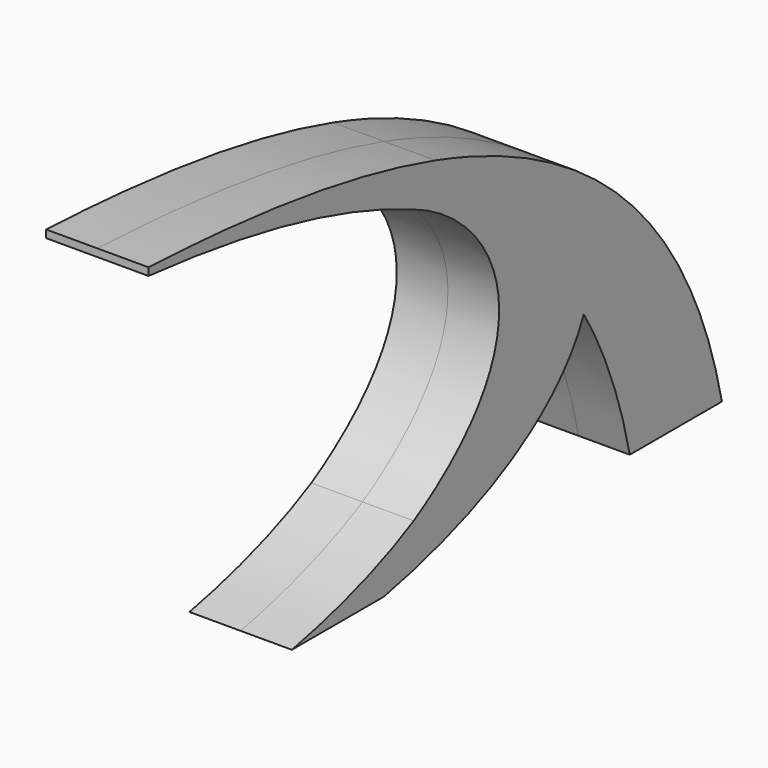
from build123d import *

# Parameters (mm, degrees)
F1_DEPTH      = 38.1
F1_DEPTH_BACK = 38.1
F2_SCALE      = 0.0833333333


with BuildPart() as f1:
    # F0 (on Right) → F1 (new body, two sides)
    with BuildSketch(Plane.YZ) as f1_sk:
        with BuildLine():
            add(Edge.make_bspline(
                [(89.0512747676, 84.3127688874), (51.5025046877, 109.6568065781), (7.9497262135, 128.8361399685), (-40.2992134272, 143.2426060549)],
                knots=[251.2899531871, 251.2899531871, 251.2899531871, 251.2899531871, 389.6266891942, 389.6266891942, 389.6266891942, 389.6266891942], degree=3))
            add(Edge.make_bspline(
                [(-40.2992134273, 143.2426060546), (-20.8577433202, 122.6663541214), (-6.4848342863, 102.9965586878), (3.3262747677, 84.3127688872)],
                knots=[0, 0, 0, 0, 44.9944338672, 44.9944338672, 44.9944338672, 44.9944338672], degree=3))
            add(Edge.make_bspline(
                [(97.9367360944, -13.693555973), (73.5382257251, 26.3390121062), (41.5418172622, 58.5186843595), (3.3262747677, 84.3127688872)],
                knots=[110.4967021115, 110.4967021115, 110.4967021115, 110.4967021115, 251.2899531868, 251.2899531868, 251.2899531868, 251.2899531868], degree=3))
            add(Edge.make_bspline(
                [(89.0512747676, 84.3127688874), (108.3054185182, 47.6461318492), (109.9905052366, 14.7769408359), (97.9367360944, -13.693555973)],
                knots=[44.994433867, 44.994433867, 44.994433867, 44.994433867, 133.2952867965, 133.2952867965, 133.2952867965, 133.2952867965], degree=3))
        make_face()
        with BuildLine():
            add(Edge.make_bspline(
                [(226.4007865727, -123.1679881383), (205.6551866214, -28.1042958821), (157.2589609394, 38.2750913429), (89.0512747676, 84.3127688874)],
                knots=[0, 0, 0, 0, 251.2899531871, 251.2899531871, 251.2899531871, 251.2899531871], degree=3))
            add(Edge.make_bspline(
                [(89.0512747676, 84.3127688874), (108.3054185182, 47.6461318492), (109.9905052366, 14.7769408359), (97.9367360944, -13.693555973)],
                knots=[44.994433867, 44.994433867, 44.994433867, 44.994433867, 133.2952867965, 133.2952867965, 133.2952867965, 133.2952867965], degree=3))
            add(Edge.make_bspline(
                [(140.6757865727, -123.1679881383), (131.5535739698, -81.366776623), (117.0850611145, -45.111729188), (97.9367360944, -13.693555973)],
                knots=[0, 0, 0, 0, 110.4967021115, 110.4967021115, 110.4967021115, 110.4967021115], degree=3))
            Line((140.6757865727, -123.1679881383), (226.4007865727, -123.1679881383))
        make_face()
        with BuildLine():
            add(Edge.make_bspline(
                [(-40.2992134273, 143.2426060546), (-20.8577433202, 122.6663541214), (-6.4848342863, 102.9965586878), (3.3262747677, 84.3127688872)],
                knots=[0, 0, 0, 0, 44.9944338672, 44.9944338672, 44.9944338672, 44.9944338672], degree=3))
            add(Edge.make_bspline(
                [(-40.2992134272, 143.2426060549), (-118.6758921642, 166.644798364), (-209.444563868, 177.4525894237), (-306.9992134273, 181.6320118621)],
                knots=[389.6266891942, 389.6266891942, 389.6266891942, 389.6266891942, 614.3440404205, 614.3440404205, 614.3440404205, 614.3440404205], degree=3))
            Line((-306.9992134273, 181.6320118621), (-306.9992134273, 175.9282581051))
            add(Edge.make_bspline(
                [(-62.3141094232, 120.0935377835), (-132.1010704471, 150.6607475907), (-215.4464728571, 167.3740709192), (-306.9992134273, 175.9282581051)],
                knots=[325.7434997871, 325.7434997871, 325.7434997871, 325.7434997871, 547.0018290671, 547.0018290671, 547.0018290671, 547.0018290671], degree=3))
            add(Edge.make_bspline(
                [(-62.3141094232, 120.0935377835), (-57.569536239, 118.1678217564), (-52.9586357331, 116.0573946954), (-48.5021746362, 113.7760695913)],
                knots=[0, 0, 0, 0, 11.285021106, 11.285021106, 11.285021106, 11.285021106], degree=3))
            add(Edge.make_bspline(
                [(3.3262747677, 84.3127688872), (-12.8680482417, 95.2433408301), (-30.1791713746, 105.0272217507), (-48.5021746362, 113.7760695913)],
                knots=[251.2899531868, 251.2899531868, 251.2899531868, 251.2899531868, 310.952887078, 310.952887078, 310.952887078, 310.952887078], degree=3))
        make_face()
        with BuildLine():
            add(Edge.make_bspline(
                [(3.3262747677, 84.3127688872), (41.6453572527, 11.3398074654), (10.3770996492, -46.5922688635), (-60.2863327619, -84.7440264271)],
                knots=[44.9944338672, 44.9944338672, 44.9944338672, 44.9944338672, 220.7284322597, 220.7284322597, 220.7284322597, 220.7284322597], degree=3))
            add(Edge.make_bspline(
                [(3.3262747677, 84.3127688872), (-12.8680482417, 95.2433408301), (-30.1791713746, 105.0272217507), (-48.5021746362, 113.7760695913)],
                knots=[251.2899531868, 251.2899531868, 251.2899531868, 251.2899531868, 310.952887078, 310.952887078, 310.952887078, 310.952887078], degree=3))
            add(Edge.make_bspline(
                [(-48.5021746362, 113.7760695913), (27.9357955296, 74.6463977604), (58.938174531, -14.7609439509), (-60.2863327619, -84.7440264271)],
                knots=[11.285021106, 11.285021106, 11.285021106, 11.285021106, 204.8476008888, 204.8476008888, 204.8476008888, 204.8476008888], degree=3))
        make_face()
        with BuildLine():
            add(Edge.make_bspline(
                [(97.9367360944, -13.693555973), (73.5382257251, 26.3390121062), (41.5418172622, 58.5186843595), (3.3262747677, 84.3127688872)],
                knots=[110.4967021115, 110.4967021115, 110.4967021115, 110.4967021115, 251.2899531868, 251.2899531868, 251.2899531868, 251.2899531868], degree=3))
            add(Edge.make_bspline(
                [(3.3262747677, 84.3127688872), (41.6453572527, 11.3398074654), (10.3770996492, -46.5922688635), (-60.2863327619, -84.7440264271)],
                knots=[44.9944338672, 44.9944338672, 44.9944338672, 44.9944338672, 220.7284322597, 220.7284322597, 220.7284322597, 220.7284322597], degree=3))
            add(Edge.make_bspline(
                [(-60.2863327619, -84.7440264271), (-91.3257478525, -101.5024571889), (-129.9663361934, -114.4443385734), (-173.6492134273, -123.1679881383)],
                knots=[220.7284322597, 220.7284322597, 220.7284322597, 220.7284322597, 297.9208404899, 297.9208404899, 297.9208404899, 297.9208404899], degree=3))
            Line((-173.6492134273, -123.1679881383), (-87.9242134273, -123.1679881383))
            add(Edge.make_bspline(
                [(97.9367360944, -13.693555973), (75.4640378893, -66.7731259386), (5.2367335677, -104.5633653163), (-87.9242134273, -123.1679881383)],
                knots=[133.2952867965, 133.2952867965, 133.2952867965, 133.2952867965, 297.9208404899, 297.9208404899, 297.9208404899, 297.9208404899], degree=3))
        make_face()
    extrude(amount=F1_DEPTH)
    extrude(f1_sk.sketch, amount=-F1_DEPTH_BACK)


with BuildPart() as f1_1:
    # F2: moved
    add(f1.part.scale(F2_SCALE))


solid = f1_1.part
